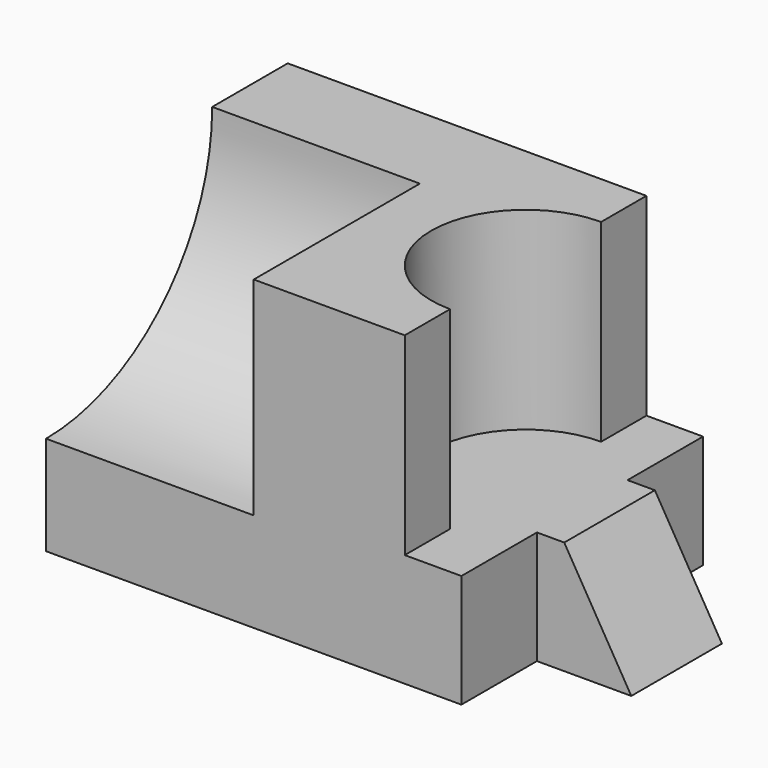
from build123d import *

# Parameters (mm, degrees)
F0_W      = 12
F0_H      = 64
F1_DEPTH  = 24
F2_DEPTH  = 65
F3_W      = 24
F3_H      = 24
F4_DEPTH  = 20
F6_DEPTH  = 37.6
F8_DEPTH  = 41
F9_W      = 44
F9_H      = 44
F10_DEPTH = 12
F11_W     = 44
F11_H     = 44
F12_DEPTH = 53
F14_DEPTH = 44


with BuildPart() as f1:
    # F0 (on Top) → F1 (new body)
    with BuildSketch(Plane.XY):
        with Locations((38, 0)):
            Rectangle(F0_W, F0_H)
    extrude(amount=F1_DEPTH)

    # F0 (on Top) → F2 (join)
    with BuildSketch(Plane.XY):
        Polygon((32, -32), (32, 32), (-44, 32), (-44, 12), (0, 12), (0, -32), align=None)
    extrude(amount=F2_DEPTH)

    # F3 (on face) → F4 (join)
    with BuildSketch(Plane.YZ.offset(44)):
        with Locations((0, 12)):
            Rectangle(F3_W, F3_H)
    extrude(amount=F4_DEPTH)

    # F5 (on face) → F6 (cut)
    with BuildSketch(Plane.XZ.offset(12)):
        Polygon((64, 24), (49.7921183705, 24), (64, 0), align=None)
    extrude(amount=-F6_DEPTH, mode=Mode.SUBTRACT)

    # F7 (on face) → F8 (cut)
    with BuildSketch(Plane.XY.offset(65)):
        with BuildLine():
            ThreePointArc((32, 20), (12, 0), (32, -20))
            Line((32, -20), (32, 20))
        make_face()
    extrude(amount=-F8_DEPTH, mode=Mode.SUBTRACT)

    # F9 (on face) → F10 (join)
    with BuildSketch(Plane.XY):
        with Locations((-22, -10)):
            Rectangle(F9_W, F9_H)
    extrude(amount=F10_DEPTH)

    # F11 (on face) → F12 (join)
    with BuildSketch(Plane.XY.offset(12)):
        with Locations((-22, -10)):
            Rectangle(F11_W, F11_H)
    extrude(amount=F12_DEPTH)

    # F13 (on face) → F14 (cut)
    with BuildSketch(Plane(origin=(-44, 0, 0), x_dir=(0, -1, 0), z_dir=(-1, 0, 0))):
        with BuildLine():
            Line((32, 65), (-12, 65))
            ThreePointArc((-12, 65), (0.8873016278, 33.8873016278), (32, 21))
            Line((32, 21), (32, 65))
        make_face()
    extrude(amount=-F14_DEPTH, mode=Mode.SUBTRACT)


solid = f1.part
